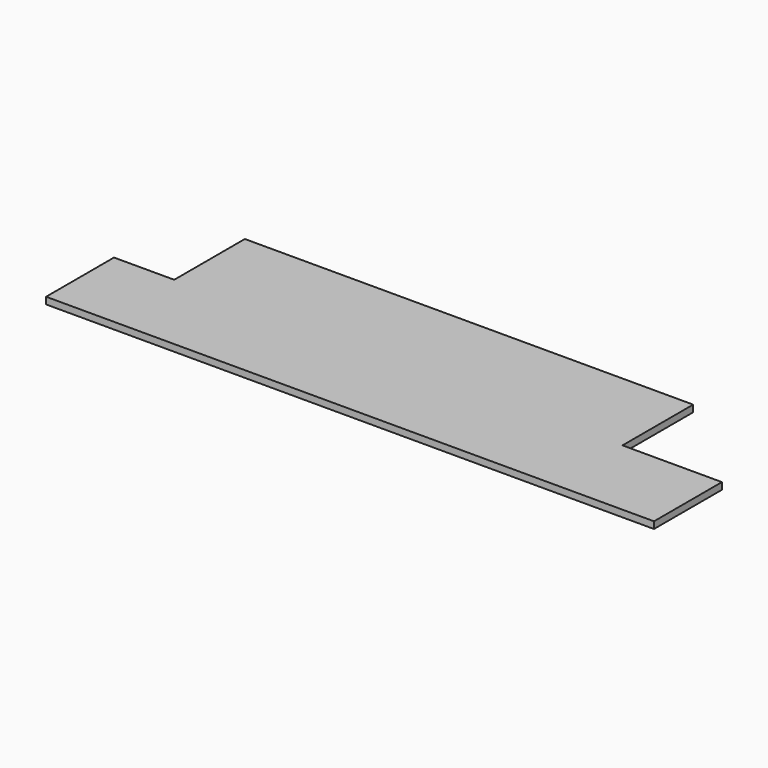
from build123d import *

# Parameters (mm, degrees)
F1_DEPTH = 50.8
F2_DEPTH = 44.45
F4_DEPTH = 6.35


with BuildPart() as f1:
    # F0 (on Top) → F1 (new body)
    with BuildSketch(Plane.XY):
        Polygon((450.324121, 0), (0, 0), (0, -635), (4546.6, -635), (4546.6, 0), (3803.124121, 0), (3803.124121, 660.4), (450.324121, 660.4), align=None)
        Polygon((3.175, -3.175), (453.499121, -3.175), (453.499121, 657.225), (3799.949121, 657.225), (3799.949121, -3.175), (4543.425, -3.175), (4543.425, -631.825), (3.175, -631.825), align=None, mode=Mode.SUBTRACT)
    extrude(amount=F1_DEPTH)


with BuildPart() as f2:
    # F0 (on Top) → F2 (new body)
    with BuildSketch(Plane.XY):
        Polygon((453.499121, 657.225), (453.499121, -3.175), (3.175, -3.175), (3.175, -631.825), (4543.425, -631.825), (4543.425, -3.175), (3799.949121, -3.175), (3799.949121, 657.225), align=None)
    extrude(amount=F2_DEPTH)


with BuildPart() as f4:
    # F3 (on face) → F4 (new body)
    with BuildSketch(Plane.XY.offset(44.45)):
        Polygon((3799.949121, 657.225), (453.499121, 657.225), (453.499121, -3.175), (3.175, -3.175), (3.175, -631.825), (4543.425, -631.825), (4543.425, -3.175), (3799.949121, -3.175), align=None)
    extrude(amount=F4_DEPTH)


solid = Compound([f1.part, f2.part, f4.part])
